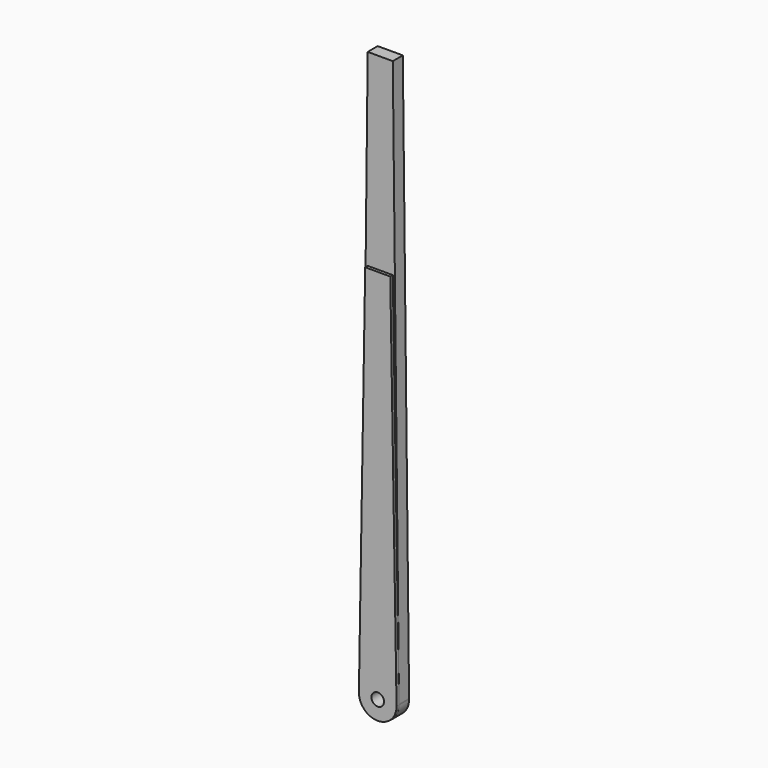
from build123d import *

# Parameters (mm, degrees)
F0_R     = 1
F1_DEPTH = 2
F2_R     = 1
F3_DEPTH = 2.5


with BuildPart() as f1:
    # F0 (on Front) → F1 (new body)
    with BuildSketch(Plane.XZ):
        with BuildLine():
            Line((-1.999877, 90.022218), (-3, 0))
            ThreePointArc((-3, 0), (0, -3.033514), (3, 0))
            Line((3, 0), (1.999877, 90.022218))
            Line((1.999877, 90.022218), (-1.999877, 90.022218))
        make_face()
        Circle(F0_R, mode=Mode.SUBTRACT)
    extrude(amount=F1_DEPTH)


with BuildPart() as f3:
    # F2 (on Front) → F3 (new body)
    with BuildSketch(Plane.XZ):
        with BuildLine():
            Line((-1.999877, 60), (-2.999768, 0.050032))
            ThreePointArc((-2.999768, 0.050032), (0, -3.000185), (2.999768, 0.050032))
            Line((2.999768, 0.050032), (1.999877, 60))
            Line((1.999877, 60), (-1.999877, 60))
        make_face()
        Circle(F2_R, mode=Mode.SUBTRACT)
    extrude(amount=F3_DEPTH)


solid = Compound([f1.part, f3.part])
